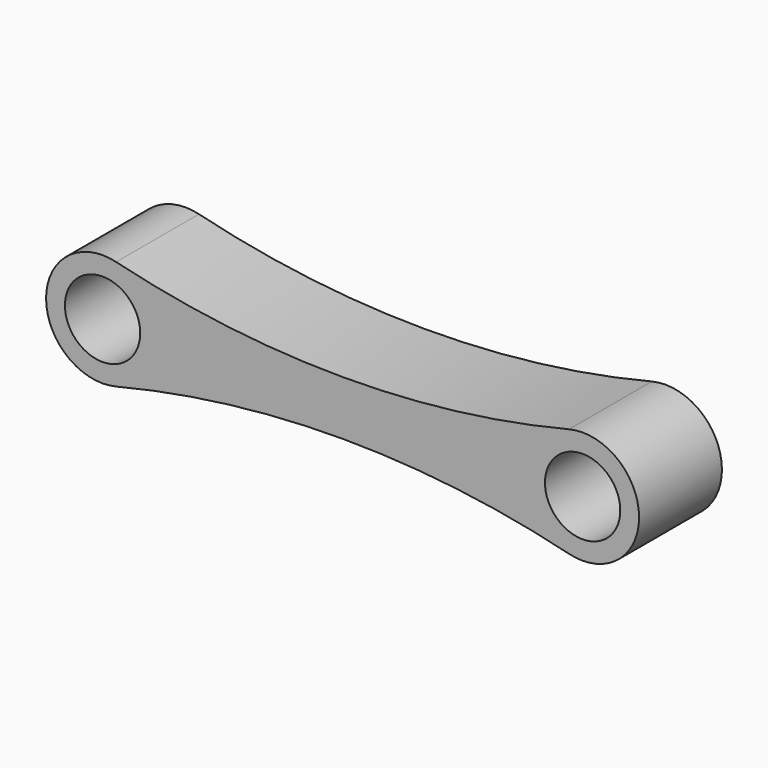
from build123d import *

# Parameters (mm, degrees)
F0_R     = 2
F1_DEPTH = 5.5


with BuildPart() as f1:
    # F0 (on Front) → F1 (new body)
    with BuildSketch(Plane.XZ):
        with BuildLine():
            ThreePointArc((-12.028302, -2.911898), (0, -1.443537), (12.028302, -2.911898))
            ThreePointArc((12.028302, -2.911898), (15.75, 0), (12.028302, 2.911898))
            ThreePointArc((12.028302, 2.911898), (0, 1.443537), (-12.028302, 2.911898))
            ThreePointArc((-12.028302, 2.911898), (-15.75, 0), (-12.028302, -2.911898))
        make_face()
        with Locations((-12.75, 0)):
            Circle(F0_R, mode=Mode.SUBTRACT)
        with Locations((12.75, 0)):
            Circle(F0_R, mode=Mode.SUBTRACT)
    extrude(amount=F1_DEPTH)


solid = f1.part
